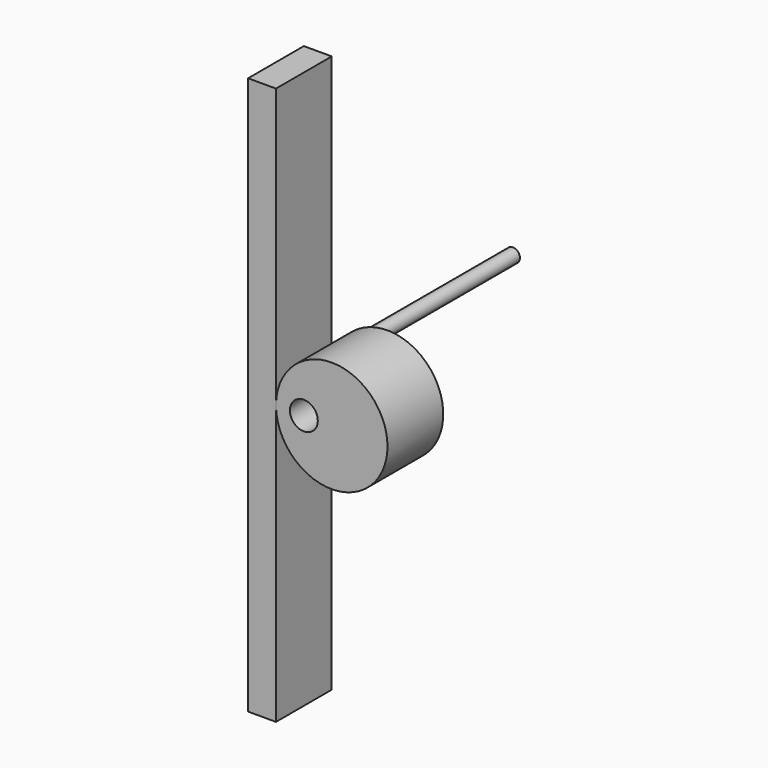
from build123d import *

# Parameters (mm, degrees)
F1_DEPTH = 12.5
F0_R     = 5
F2_R     = 2.5
F3_DEPTH = 100


with BuildPart() as f1:
    # F0 (on Front) → F1 (new body, symmetric)
    with BuildSketch(Plane.XZ):
        Polygon((5, 100), (-5, 100), (-5, -100), (5, -100), (5, 1.94e-08), align=None)
    extrude(amount=F1_DEPTH, both=True)


with BuildPart() as f1b:
    # F0 (on Front) → F1, piece 2 (new body, symmetric)
    with BuildSketch(Plane.XZ):
        with BuildLine():
            ThreePointArc((45, 0), (25.0000000097, 20), (5, 1.94e-08))
            ThreePointArc((5, 1.94e-08), (24.9999999903, -20), (45, 0))
        make_face()
        with Locations((15, 0)):
            Circle(F0_R, mode=Mode.SUBTRACT)
    extrude(amount=F1_DEPTH, both=True)


with BuildPart() as f3:
    # F2 (on Front) → F3 (new body)
    with BuildSketch(Plane.XZ):
        Circle(F2_R)
    extrude(amount=-F3_DEPTH)


solid = Compound([f1.part, f1b.part, f3.part])
